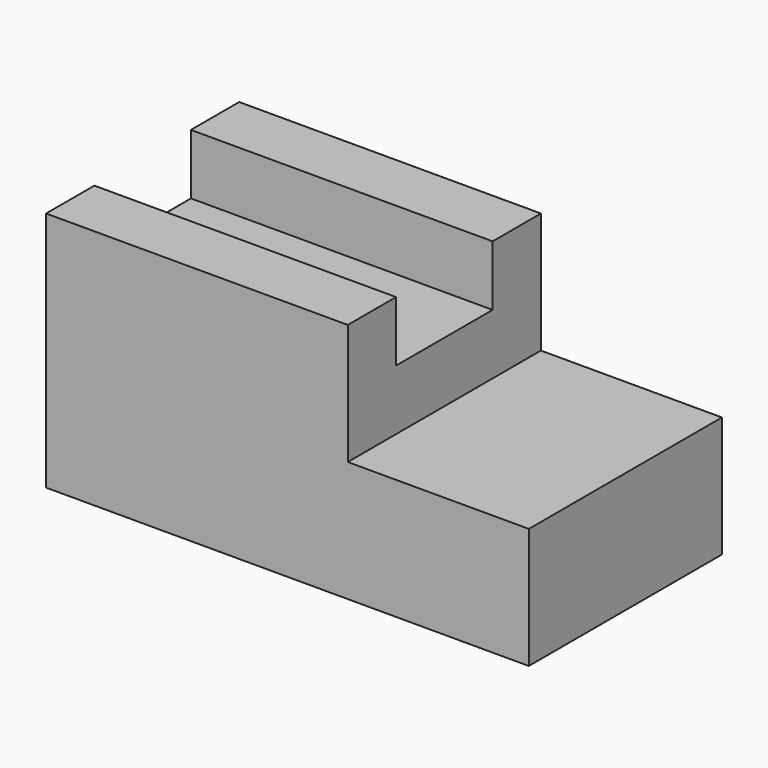
from build123d import *

# Parameters (mm, degrees)
F0_W     = 203.2
F0_H     = 50.8
F1_DEPTH = 101.6
F2_W     = 50.8
F2_H     = 25.4
F3_DEPTH = 127


with BuildPart() as f1:
    # F0 (on Front) → F1 (new body)
    with BuildSketch(Plane.XZ):
        Rectangle(F0_W, F0_H)
    extrude(amount=F1_DEPTH)

    # F2 (on face) → F3 (join)
    with BuildSketch(Plane(origin=(-101.6, 0, 0), x_dir=(0, -1, 0), z_dir=(-1, 0, 0))):
        Polygon((0, 76.2), (0, 25.4), (25.4, 25.4), (25.4, 50.8), (25.4, 76.2), align=None)
        with Locations((50.8, 38.1)):
            Rectangle(F2_W, F2_H)
        Polygon((76.2, 50.8), (76.2, 25.4), (101.6, 25.4), (101.6, 76.2), (76.2, 76.2), align=None)
    extrude(amount=-F3_DEPTH)


solid = f1.part
